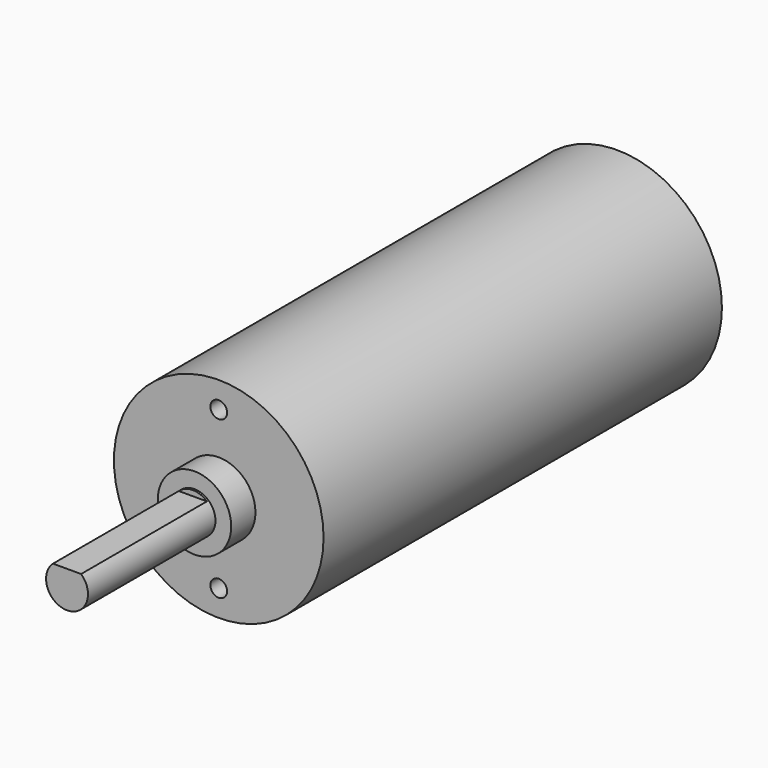
from build123d import *

# Parameters (mm, degrees)
F0_R     = 10
F1_DEPTH = 47.5
F2_R     = 3.5
F3_DEPTH = 2.89
F4_R     = 2
F5_DEPTH = 15.2
F7_D     = 1.6
F7_DEPTH = 6.2
F7_TIP   = 0.4806884952
F9_DEPTH = 15


with BuildPart() as f1:
    # F0 (on Front) → F1 (new body)
    with BuildSketch(Plane.XZ):
        Circle(F0_R)
    extrude(amount=F1_DEPTH)

    # F2 (on face) → F3 (join)
    with BuildSketch(Plane.XZ.offset(47.5)):
        Circle(F2_R)
    extrude(amount=F3_DEPTH)

    # F4 (on face) → F5 (join)
    with BuildSketch(Plane.XZ.offset(50.39)):
        Circle(F4_R)
    extrude(amount=F5_DEPTH)

    # F7
    with Locations(Plane.XZ.offset(47.5)):
        with Locations((0, 7.5), (0, -7.5)):
            Hole(F7_D / 2, depth=F7_DEPTH)
            with Locations((0, 0, -(F7_DEPTH + F7_TIP / 2))):  # 118° drill point
                Cone(0, F7_D / 2, F7_TIP, mode=Mode.SUBTRACT)

    # F8 (on face) → F9 (cut)
    with BuildSketch(Plane.XZ.offset(65.59)):
        with BuildLine():
            ThreePointArc((1.339812841, 1.4848910907), (0, 2), (-1.339812841, 1.4848910907))
            Line((-1.339812841, 1.4848910907), (1.339812841, 1.4848910907))
        make_face()
    extrude(amount=-F9_DEPTH, mode=Mode.SUBTRACT)


solid = f1.part
